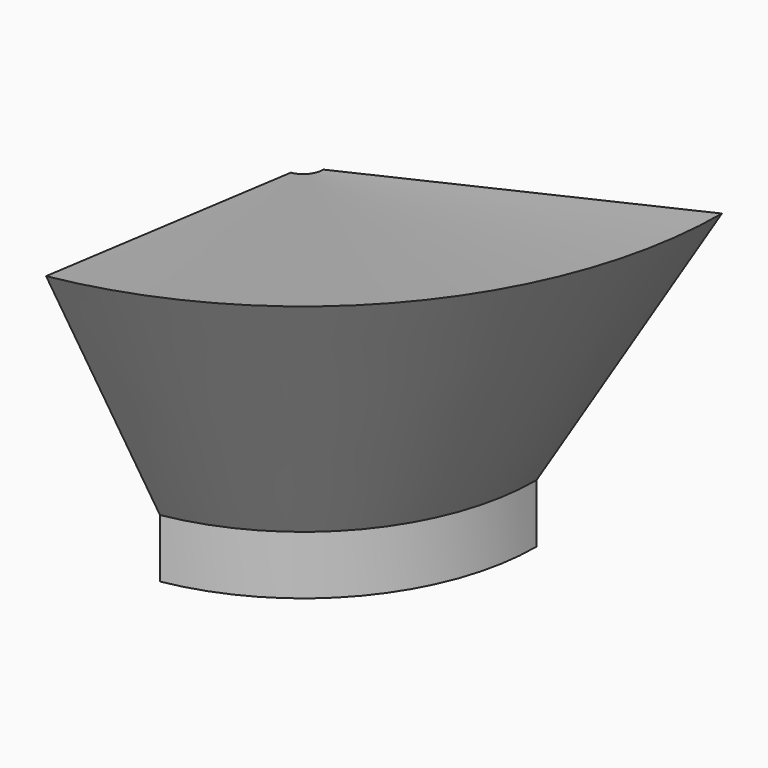
from build123d import *

# Parameters (mm, degrees)
F1_ANGLE = 80


with BuildPart() as f1:
    # F0 (on Front) → F1 (revolve)
    with BuildSketch(Plane.XZ):
        Polygon((0.2, 1.231312), (2, 0.1), (2.3, 0.577322), (4.128528, 3.486645), (0.2, 2.59047), align=None)
        Polygon((2.3, 0.577322), (2, 0.1), (2, 0), (2.3, 0), align=None)
    revolve(axis=Axis((0, 0, -1), (0, 0, -1)), revolution_arc=F1_ANGLE)


solid = f1.part
